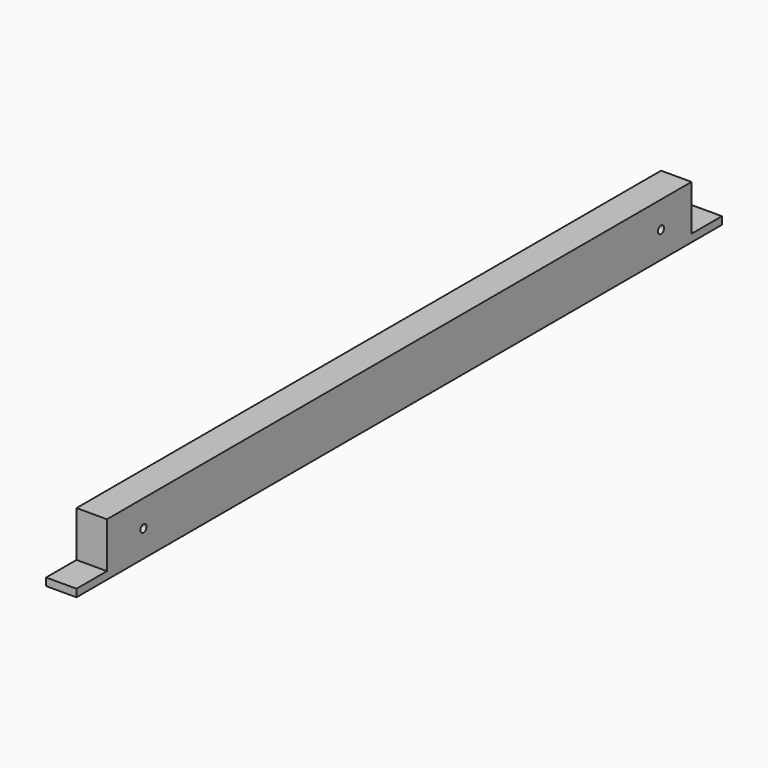
from build123d import *

# Parameters (mm, degrees)
F0_W     = 20
F0_H     = 35
F1_DEPTH = 530
F2_W     = 25
F2_H     = 30
F3_DEPTH = 20
F4_R     = 2.5
F5_DEPTH = 25


with BuildPart() as f1:
    # F0 (on Front) → F1 (new body)
    with BuildSketch(Plane.XZ):
        Rectangle(F0_W, F0_H)
    extrude(amount=-F1_DEPTH)

    # F2 (on face) → F3 (cut)
    with BuildSketch(Plane.YZ.offset(10)):
        with Locations((12.5, 2.5)):
            Rectangle(F2_W, F2_H)
        with Locations((517.5, 2.5)):
            Rectangle(F2_W, F2_H)
    extrude(amount=-F3_DEPTH, mode=Mode.SUBTRACT)

    # F4 (on face) → F5 (cut)
    with BuildSketch(Plane.YZ.offset(10)):
        with Locations((55, 0)):
            Circle(F4_R)
        with Locations((480, 0)):
            Circle(F4_R)
    extrude(amount=-F5_DEPTH, mode=Mode.SUBTRACT)


solid = f1.part
